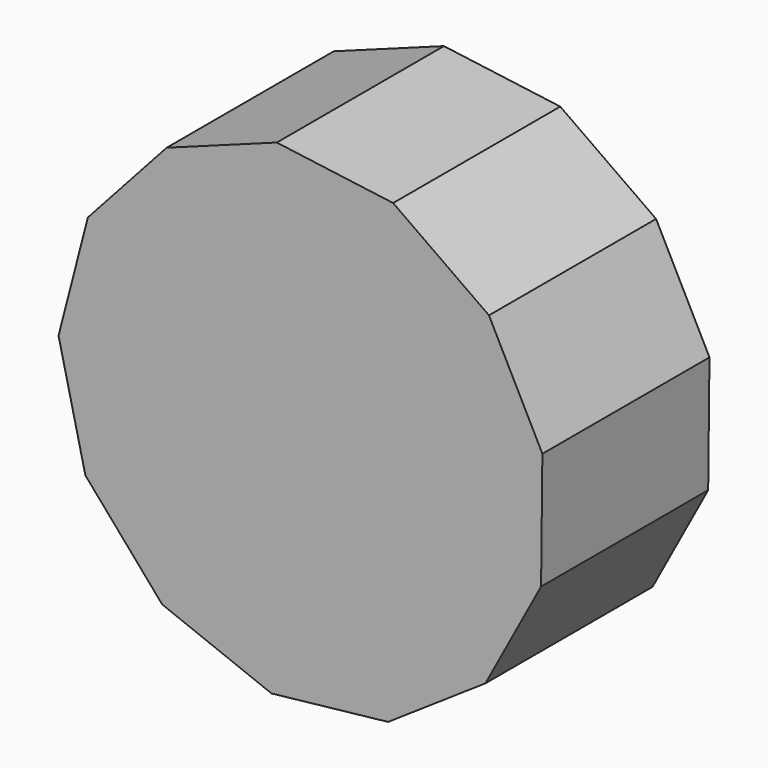
from build123d import *

# Parameters (mm, degrees)
F1_DEPTH = 20
F2_DEPTH = 20


with BuildPart() as f1:
    # F0 (on Front) → F1 (new body, symmetric)
    with BuildSketch(Plane.XZ):
        Polygon((16.16565, -44.080839), (34.79936, -31.519093), (45.460955, -11.736702), (45.707994, 10.734426), (35.483882, 30.746426), (17.130841, 43.714791), (-5.14667, 46.668624), (-26.245141, 38.931237), (-41.331166, 22.275173), (-46.948719, 0.516136), (-41.810887, -21.361142), (-27.094684, -38.34484), (-6.171415, -46.544197), align=None)
        Polygon((21.260118, -15.324641), (11.703184, -23.449365), (-0.534809, -26.202123), (-12.650283, -22.952289), (-21.86773, -14.444363), (-26.075544, -2.627408), (-24.309764, 9.791456), (-16.974911, 19.967214), (-5.75131, 25.568725), (6.789846, 25.312748), (17.775531, 19.257927), (24.689056, 8.791346), (25.946615, -3.689226), align=None, mode=Mode.SUBTRACT)
    extrude(amount=F1_DEPTH, both=True)

    # F0 (on Front) → F2 (join)
    with BuildSketch(Plane.XZ):
        Polygon((-0.534809, -26.202123), (11.703184, -23.449365), (21.260118, -15.324641), (25.946615, -3.689226), (24.689056, 8.791346), (17.775531, 19.257927), (6.789846, 25.312748), (-5.75131, 25.568725), (-16.974911, 19.967214), (-24.309764, 9.791456), (-26.075544, -2.627408), (-21.86773, -14.444363), (-12.650283, -22.952289), align=None)
    extrude(amount=F2_DEPTH)


solid = f1.part
